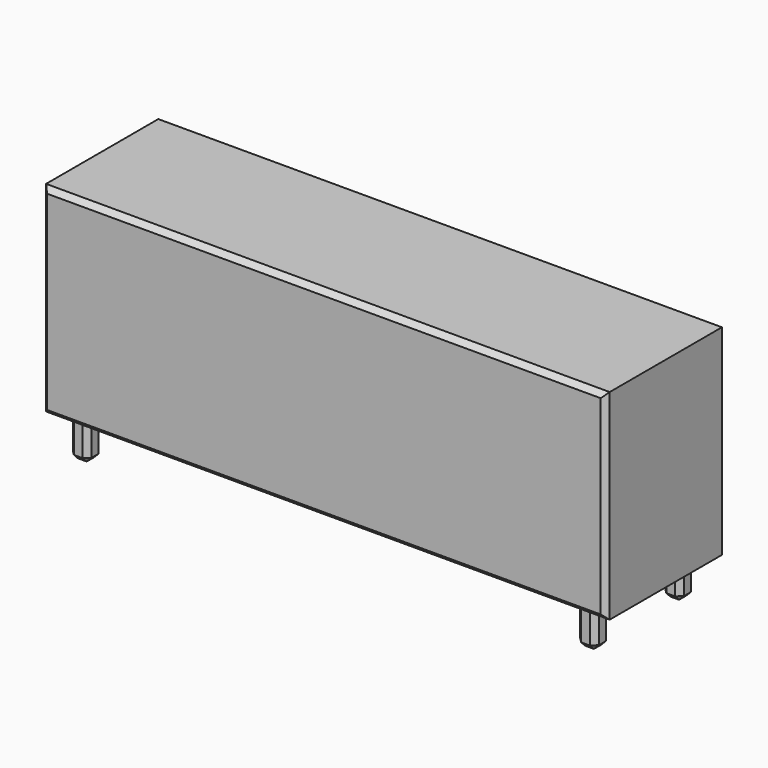
from build123d import *

# Parameters (mm, degrees)
F0_W     = 2250
F0_H     = 580
F1_DEPTH = 950
F2_W     = 1950
F2_H     = 150
F2_W_2   = 75
F3_DEPTH = 600
F4_W     = 40
F4_H     = 150
F4_W_2   = 350
F5_DEPTH = 2250
F6_SIZE  = 20


with BuildPart() as f1:
    # F0 (on Top) → F1 (new body)
    with BuildSketch(Plane.XY):
        with Locations((-1125, 290)):
            Rectangle(F0_W, F0_H)
    extrude(amount=F1_DEPTH)

    # F2 (on face) → F3 (cut)
    with BuildSketch(Plane.XZ):
        with Locations((-1125, 75)):
            Rectangle(F2_W, F2_H)
        with Locations((-2212.5, 75)):
            Rectangle(F2_W_2, F2_H)
        with Locations((-37.5, 75)):
            Rectangle(F2_W_2, F2_H)
    extrude(amount=-F3_DEPTH, mode=Mode.SUBTRACT)

    # F4 (on face) → F5 (cut)
    with BuildSketch(Plane(origin=(-2175, 0, 0), x_dir=(0, -1, 0), z_dir=(-1, 0, 0))):
        with Locations((-560, 75)):
            Rectangle(F4_W, F4_H)
        with Locations((-20, 75)):
            Rectangle(F4_W, F4_H)
        with Locations((-290, 75)):
            Rectangle(F4_W_2, F4_H)
    extrude(amount=-F5_DEPTH, mode=Mode.SUBTRACT)

    # F6
    f6_edges = [f1.edges().sort_by_distance(p)[0] for p in [
        (0, 0, 550),
        (-1125, 0, 150),
        (-2250, 0, 550),
        (-1125, 0, 950),
        (-2175, 40, 75),
        (-2100, 40, 75),
        (-2100, 115, 75),
        (-2175, 465, 75),
        (-2100, 465, 75),
        (-2100, 540, 75),
        (-2175, 540, 75),
        (-2175, 115, 75),
        (-75, 540, 75),
        (-75, 465, 75),
        (-75, 115, 75),
        (-75, 40, 75),
        (-150, 465, 75),
        (-150, 540, 75),
        (-150, 115, 75),
        (-150, 40, 75),
        (-112.5, 40, 0),
        (-75, 77.5, 0),
        (-112.5, 115, 0),
        (-150, 77.5, 0),
        (-112.5, 465, 0),
        (-75, 502.5, 0),
        (-112.5, 540, 0),
        (-150, 502.5, 0),
        (-2137.5, 465, 0),
        (-2175, 502.5, 0),
        (-2137.5, 540, 0),
        (-2100, 502.5, 0),
        (-2137.5, 115, 0),
        (-2137.5, 40, 0),
        (-2100, 77.5, 0),
        (-2175, 77.5, 0),
    ]]
    chamfer(f6_edges, length=F6_SIZE)


solid = f1.part
